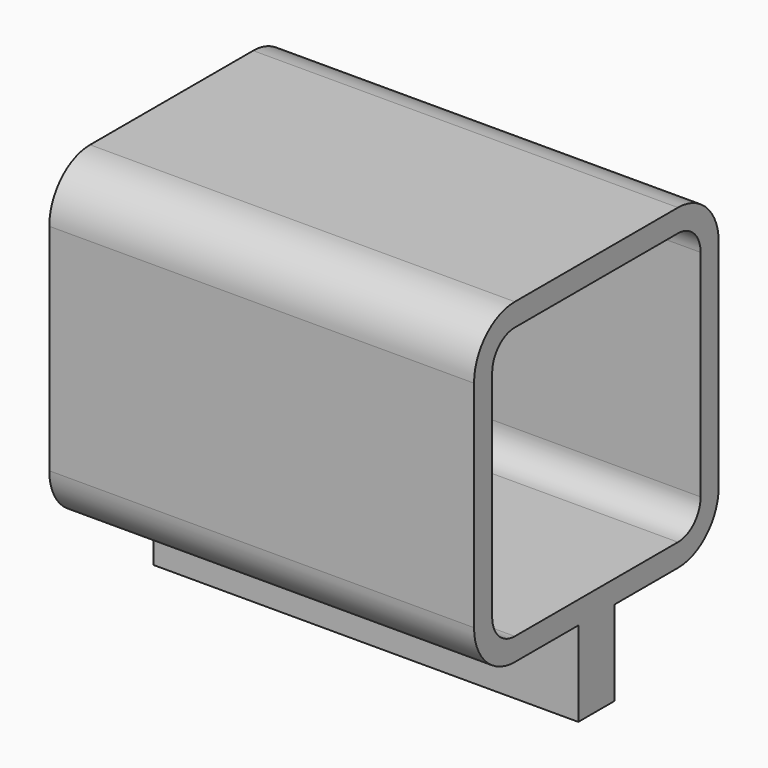
from build123d import *

# Parameters (mm, degrees)
F1_DEPTH = 75


with BuildPart() as f1:
    # F0 (on Right) → F1 (new body)
    with BuildSketch(Plane.YZ):
        with BuildLine():
            Line((-27, -19), (-23, -19))
            Line((-23, -19), (-19, -19))
            Line((-19, -19), (-19, -4))
            Line((-19, -4), (-5, -4))
            ThreePointArc((-5, -4), (1.363961, -1.363961), (4, 5))
            Line((4, 5), (4, 43))
            ThreePointArc((4, 43), (1.363961, 49.363961), (-5, 52))
            Line((-5, 52), (-41, 52))
            ThreePointArc((-41, 52), (-47.363961, 49.363961), (-50, 43))
            Line((-50, 43), (-50, 5))
            ThreePointArc((-50, 5), (-47.363961, -1.363961), (-41, -4))
            Line((-41, -4), (-27, -4))
            Line((-27, -4), (-27, -19))
        make_face()
        with BuildLine():
            ThreePointArc((-46, 43), (-44.535534, 46.535534), (-41, 48))
            Line((-41, 48), (-5, 48))
            ThreePointArc((-5, 48), (-1.464466, 46.535534), (0, 43))
            Line((0, 43), (0, 5))
            ThreePointArc((0, 5), (-1.464466, 1.464466), (-5, 0))
            Line((-5, 0), (-23, 0))
            Line((-23, 0), (-41, 0))
            ThreePointArc((-41, 0), (-44.535534, 1.464466), (-46, 5))
            Line((-46, 5), (-46, 43))
        make_face(mode=Mode.SUBTRACT)
    extrude(amount=F1_DEPTH)


solid = f1.part
